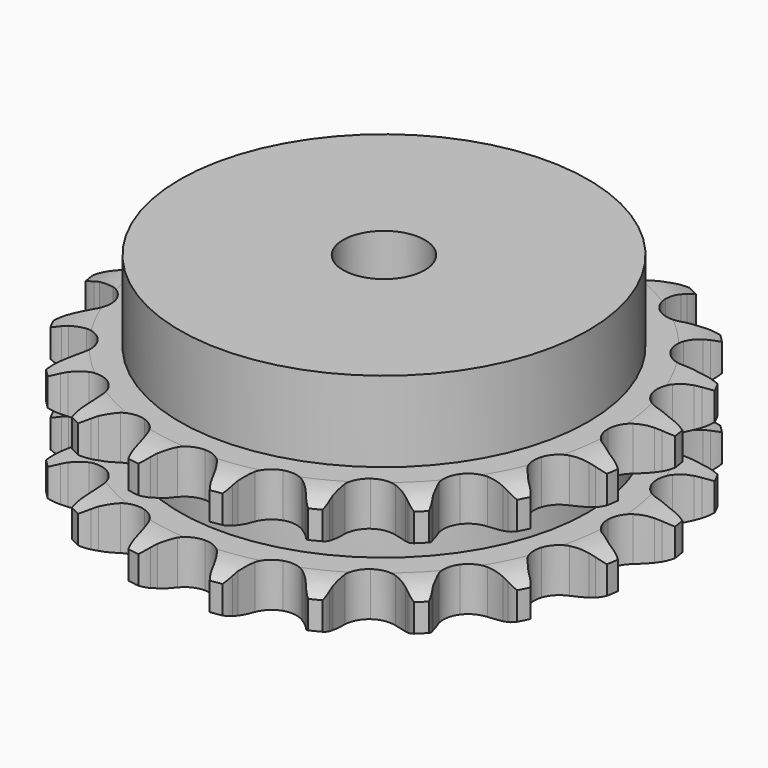
from build123d import *

# Parameters (mm, degrees)
PAD_DEPTH         = 30.3
SKETCH001_R       = 50
PAD001_DEPTH      = 50
SKETCH002_R       = 10
POCKET_DEPTH      = 0.001
POCKET_DEPTH_BACK = 50.001


with BuildPart() as part:
    # Sprocket → Pad (new body)
    with BuildSketch(Plane.XY):
        with BuildLine():
            ThreePointArc((-10.457392, 66.025375), (-8.733699, 64.251511), (-7.499764, 62.107889))
            Line((-7.499764, 62.107889), (-6.918863, 60.725979))
            ThreePointArc((-6.918863, 60.725979), (-5.983558, 58.858219), (-4.809446, 57.130566))
            ThreePointArc((-4.809446, 57.130566), (-2.6755, 55.40253), (0, 54.784842))
            ThreePointArc((0, 54.784842), (2.6755, 55.40253), (4.809446, 57.130566))
            ThreePointArc((4.809446, 57.130566), (5.983558, 58.858219), (6.918863, 60.725979))
            Line((6.918863, 60.725979), (7.499764, 62.107889))
            ThreePointArc((7.499764, 62.107889), (8.733699, 64.251511), (10.457392, 66.025375))
            ThreePointArc((10.457392, 66.025375), (11.548567, 63.80568), (12.059693, 61.385667))
            Line((12.059693, 61.385667), (12.18513, 59.891885))
            ThreePointArc((12.18513, 59.891885), (12.497488, 57.826514), (13.08026, 55.820597))
            ThreePointArc((13.08026, 55.820597), (14.575772, 53.517712), (16.929447, 52.103481))
            ThreePointArc((16.929447, 52.103481), (19.664875, 51.864162), (22.228371, 52.848196))
            Line((22.228371, 52.848196), (25.345589, 55.615792))
            ThreePointArc((25.345589, 55.615792), (25.821841, 56.194828), (26.325093, 56.750558))
            ThreePointArc((26.325093, 56.750558), (28.16105, 58.407957), (30.348534, 59.562352))
            ThreePointArc((30.348534, 59.562352), (30.70038, 57.114104), (30.438664, 54.654588))
            Line((30.438664, 54.654588), (30.096357, 53.195155))
            ThreePointArc((30.096357, 53.195155), (29.755193, 51.134347), (29.68958, 49.04652))
            ThreePointArc((29.68958, 49.04652), (30.400265, 46.394207), (32.201722, 44.321868))
            ThreePointArc((32.201722, 44.321868), (34.729315, 43.248969), (37.471428, 43.392677))
            Line((37.471428, 43.392677), (41.291313, 45.061544))
            ThreePointArc((41.291313, 45.061544), (41.923187, 45.46507), (42.573538, 45.838087))
            ThreePointArc((42.573538, 45.838087), (44.831802, 46.847025), (47.26895, 47.26895))
            ThreePointArc((47.26895, 47.26895), (46.847025, 44.831802), (45.838087, 42.573538))
            Line((45.838087, 42.573538), (45.061544, 41.291313))
            ThreePointArc((45.061544, 41.291313), (44.100252, 39.436793), (43.392677, 37.471428))
            ThreePointArc((43.392677, 37.471428), (43.248969, 34.729315), (44.321868, 32.201722))
            ThreePointArc((44.321868, 32.201722), (46.394207, 30.400265), (49.04652, 29.68958))
            Line((49.04652, 29.68958), (53.195155, 30.096357))
            ThreePointArc((53.195155, 30.096357), (53.920799, 30.284874), (54.654588, 30.438664))
            ThreePointArc((54.654588, 30.438664), (57.114104, 30.70038), (59.562352, 30.348534))
            ThreePointArc((59.562352, 30.348534), (58.407957, 28.16105), (56.750558, 26.325093))
            Line((56.750558, 26.325093), (55.615792, 25.345589))
            ThreePointArc((55.615792, 25.345589), (54.128471, 23.878892), (52.848196, 22.228371))
            ThreePointArc((52.848196, 22.228371), (51.864162, 19.664875), (52.103481, 16.929447))
            ThreePointArc((52.103481, 16.929447), (53.517712, 14.575772), (55.820597, 13.08026))
            Line((55.820597, 13.08026), (59.891885, 12.18513))
            ThreePointArc((59.891885, 12.18513), (60.640268, 12.140183), (61.385667, 12.059693))
            ThreePointArc((61.385667, 12.059693), (63.80568, 11.548567), (66.025375, 10.457392))
            ThreePointArc((66.025375, 10.457392), (64.251511, 8.733699), (62.107889, 7.499764))
            Line((62.107889, 7.499764), (60.725979, 6.918863))
            ThreePointArc((60.725979, 6.918863), (58.858219, 5.983558), (57.130566, 4.809446))
            ThreePointArc((57.130566, 4.809446), (55.40253, 2.6755), (54.784842, 0))
            ThreePointArc((54.784842, 0), (55.40253, -2.6755), (57.130566, -4.809446))
            Line((57.130566, -4.809446), (60.725979, -6.918863))
            ThreePointArc((60.725979, -6.918863), (61.423845, -7.192873), (62.107889, -7.499764))
            ThreePointArc((62.107889, -7.499764), (64.251511, -8.733699), (66.025375, -10.457392))
            ThreePointArc((66.025375, -10.457392), (63.80568, -11.548567), (61.385667, -12.059693))
            Line((61.385667, -12.059693), (59.891885, -12.18513))
            ThreePointArc((59.891885, -12.18513), (57.826514, -12.497488), (55.820597, -13.08026))
            ThreePointArc((55.820597, -13.08026), (53.517712, -14.575772), (52.103481, -16.929447))
            ThreePointArc((52.103481, -16.929447), (51.864162, -19.664875), (52.848196, -22.228371))
            Line((52.848196, -22.228371), (55.615792, -25.345589))
            ThreePointArc((55.615792, -25.345589), (56.194828, -25.821841), (56.750558, -26.325093))
            ThreePointArc((56.750558, -26.325093), (58.407957, -28.16105), (59.562352, -30.348534))
            ThreePointArc((59.562352, -30.348534), (57.114104, -30.70038), (54.654588, -30.438664))
            Line((54.654588, -30.438664), (53.195155, -30.096357))
            ThreePointArc((53.195155, -30.096357), (51.134347, -29.755193), (49.04652, -29.68958))
            ThreePointArc((49.04652, -29.68958), (46.394207, -30.400265), (44.321868, -32.201722))
            ThreePointArc((44.321868, -32.201722), (43.248969, -34.729315), (43.392677, -37.471428))
            Line((43.392677, -37.471428), (45.061544, -41.291313))
            ThreePointArc((45.061544, -41.291313), (45.46507, -41.923187), (45.838087, -42.573538))
            ThreePointArc((45.838087, -42.573538), (46.847025, -44.831802), (47.26895, -47.26895))
            ThreePointArc((47.26895, -47.26895), (44.831802, -46.847025), (42.573538, -45.838087))
            Line((42.573538, -45.838087), (41.291313, -45.061544))
            ThreePointArc((41.291313, -45.061544), (39.436793, -44.100252), (37.471428, -43.392677))
            ThreePointArc((37.471428, -43.392677), (34.729315, -43.248969), (32.201722, -44.321868))
            ThreePointArc((32.201722, -44.321868), (30.400265, -46.394207), (29.68958, -49.04652))
            Line((29.68958, -49.04652), (30.096357, -53.195155))
            ThreePointArc((30.096357, -53.195155), (30.284874, -53.920799), (30.438664, -54.654588))
            ThreePointArc((30.438664, -54.654588), (30.70038, -57.114104), (30.348534, -59.562352))
            ThreePointArc((30.348534, -59.562352), (28.16105, -58.407957), (26.325093, -56.750558))
            Line((26.325093, -56.750558), (25.345589, -55.615792))
            ThreePointArc((25.345589, -55.615792), (23.878892, -54.128471), (22.228371, -52.848196))
            ThreePointArc((22.228371, -52.848196), (19.664875, -51.864162), (16.929447, -52.103481))
            ThreePointArc((16.929447, -52.103481), (14.575772, -53.517712), (13.08026, -55.820597))
            Line((13.08026, -55.820597), (12.18513, -59.891885))
            ThreePointArc((12.18513, -59.891885), (12.140183, -60.640268), (12.059693, -61.385667))
            ThreePointArc((12.059693, -61.385667), (11.548567, -63.80568), (10.457392, -66.025375))
            ThreePointArc((10.457392, -66.025375), (8.733699, -64.251511), (7.499764, -62.107889))
            Line((7.499764, -62.107889), (6.918863, -60.725979))
            ThreePointArc((6.918863, -60.725979), (5.983558, -58.858219), (4.809446, -57.130566))
            ThreePointArc((4.809446, -57.130566), (2.6755, -55.40253), (0, -54.784842))
            ThreePointArc((0, -54.784842), (-2.6755, -55.40253), (-4.809446, -57.130566))
            Line((-4.809446, -57.130566), (-6.918863, -60.725979))
            ThreePointArc((-6.918863, -60.725979), (-7.192873, -61.423845), (-7.499764, -62.107889))
            ThreePointArc((-7.499764, -62.107889), (-8.733699, -64.251511), (-10.457392, -66.025375))
            ThreePointArc((-10.457392, -66.025375), (-11.548567, -63.80568), (-12.059693, -61.385667))
            Line((-12.059693, -61.385667), (-12.18513, -59.891885))
            ThreePointArc((-12.18513, -59.891885), (-12.497488, -57.826514), (-13.08026, -55.820597))
            ThreePointArc((-13.08026, -55.820597), (-14.575772, -53.517712), (-16.929447, -52.103481))
            ThreePointArc((-16.929447, -52.103481), (-19.664875, -51.864162), (-22.228371, -52.848196))
            Line((-22.228371, -52.848196), (-25.345589, -55.615792))
            ThreePointArc((-25.345589, -55.615792), (-25.821841, -56.194828), (-26.325093, -56.750558))
            ThreePointArc((-26.325093, -56.750558), (-28.16105, -58.407957), (-30.348534, -59.562352))
            ThreePointArc((-30.348534, -59.562352), (-30.70038, -57.114104), (-30.438664, -54.654588))
            Line((-30.438664, -54.654588), (-30.096357, -53.195155))
            ThreePointArc((-30.096357, -53.195155), (-29.755193, -51.134347), (-29.68958, -49.04652))
            ThreePointArc((-29.68958, -49.04652), (-30.400265, -46.394207), (-32.201722, -44.321868))
            ThreePointArc((-32.201722, -44.321868), (-34.729315, -43.248969), (-37.471428, -43.392677))
            Line((-37.471428, -43.392677), (-41.291313, -45.061544))
            ThreePointArc((-41.291313, -45.061544), (-41.923187, -45.46507), (-42.573538, -45.838087))
            ThreePointArc((-42.573538, -45.838087), (-44.831802, -46.847025), (-47.26895, -47.26895))
            ThreePointArc((-47.26895, -47.26895), (-46.847025, -44.831802), (-45.838087, -42.573538))
            Line((-45.838087, -42.573538), (-45.061544, -41.291313))
            ThreePointArc((-45.061544, -41.291313), (-44.100252, -39.436793), (-43.392677, -37.471428))
            ThreePointArc((-43.392677, -37.471428), (-43.248969, -34.729315), (-44.321868, -32.201722))
            ThreePointArc((-44.321868, -32.201722), (-46.394207, -30.400265), (-49.04652, -29.68958))
            Line((-49.04652, -29.68958), (-53.195155, -30.096357))
            ThreePointArc((-53.195155, -30.096357), (-53.920799, -30.284874), (-54.654588, -30.438664))
            ThreePointArc((-54.654588, -30.438664), (-57.114104, -30.70038), (-59.562352, -30.348534))
            ThreePointArc((-59.562352, -30.348534), (-58.407957, -28.16105), (-56.750558, -26.325093))
            Line((-56.750558, -26.325093), (-55.615792, -25.345589))
            ThreePointArc((-55.615792, -25.345589), (-54.128471, -23.878892), (-52.848196, -22.228371))
            ThreePointArc((-52.848196, -22.228371), (-51.864162, -19.664875), (-52.103481, -16.929447))
            ThreePointArc((-52.103481, -16.929447), (-53.517712, -14.575772), (-55.820597, -13.08026))
            Line((-55.820597, -13.08026), (-59.891885, -12.18513))
            ThreePointArc((-59.891885, -12.18513), (-60.640268, -12.140183), (-61.385667, -12.059693))
            ThreePointArc((-61.385667, -12.059693), (-63.80568, -11.548567), (-66.025375, -10.457392))
            ThreePointArc((-66.025375, -10.457392), (-64.251511, -8.733699), (-62.107889, -7.499764))
            Line((-62.107889, -7.499764), (-60.725979, -6.918863))
            ThreePointArc((-60.725979, -6.918863), (-58.858219, -5.983558), (-57.130566, -4.809446))
            ThreePointArc((-57.130566, -4.809446), (-55.40253, -2.6755), (-54.784842, 0))
            ThreePointArc((-54.784842, 0), (-55.40253, 2.6755), (-57.130566, 4.809446))
            Line((-57.130566, 4.809446), (-60.725979, 6.918863))
            ThreePointArc((-60.725979, 6.918863), (-61.423845, 7.192873), (-62.107889, 7.499764))
            ThreePointArc((-62.107889, 7.499764), (-64.251511, 8.733699), (-66.025375, 10.457392))
            ThreePointArc((-66.025375, 10.457392), (-63.80568, 11.548567), (-61.385667, 12.059693))
            Line((-61.385667, 12.059693), (-59.891885, 12.18513))
            ThreePointArc((-59.891885, 12.18513), (-57.826514, 12.497488), (-55.820597, 13.08026))
            ThreePointArc((-55.820597, 13.08026), (-53.517712, 14.575772), (-52.103481, 16.929447))
            ThreePointArc((-52.103481, 16.929447), (-51.864162, 19.664875), (-52.848196, 22.228371))
            Line((-52.848196, 22.228371), (-55.615792, 25.345589))
            ThreePointArc((-55.615792, 25.345589), (-56.194828, 25.821841), (-56.750558, 26.325093))
            ThreePointArc((-56.750558, 26.325093), (-58.407957, 28.16105), (-59.562352, 30.348534))
            ThreePointArc((-59.562352, 30.348534), (-57.114104, 30.70038), (-54.654588, 30.438664))
            Line((-54.654588, 30.438664), (-53.195155, 30.096357))
            ThreePointArc((-53.195155, 30.096357), (-51.134347, 29.755193), (-49.04652, 29.68958))
            ThreePointArc((-49.04652, 29.68958), (-46.394207, 30.400265), (-44.321868, 32.201722))
            ThreePointArc((-44.321868, 32.201722), (-43.248969, 34.729315), (-43.392677, 37.471428))
            Line((-43.392677, 37.471428), (-45.061544, 41.291313))
            ThreePointArc((-45.061544, 41.291313), (-45.46507, 41.923187), (-45.838087, 42.573538))
            ThreePointArc((-45.838087, 42.573538), (-46.847025, 44.831802), (-47.26895, 47.26895))
            ThreePointArc((-47.26895, 47.26895), (-44.831802, 46.847025), (-42.573538, 45.838087))
            Line((-42.573538, 45.838087), (-41.291313, 45.061544))
            ThreePointArc((-41.291313, 45.061544), (-39.436793, 44.100252), (-37.471428, 43.392677))
            ThreePointArc((-37.471428, 43.392677), (-34.729315, 43.248969), (-32.201722, 44.321868))
            ThreePointArc((-32.201722, 44.321868), (-30.400265, 46.394207), (-29.68958, 49.04652))
            Line((-29.68958, 49.04652), (-30.096357, 53.195155))
            ThreePointArc((-30.096357, 53.195155), (-30.284874, 53.920799), (-30.438664, 54.654588))
            ThreePointArc((-30.438664, 54.654588), (-30.70038, 57.114104), (-30.348534, 59.562352))
            ThreePointArc((-30.348534, 59.562352), (-28.16105, 58.407957), (-26.325093, 56.750558))
            Line((-26.325093, 56.750558), (-25.345589, 55.615792))
            ThreePointArc((-25.345589, 55.615792), (-23.878892, 54.128471), (-22.228371, 52.848196))
            ThreePointArc((-22.228371, 52.848196), (-19.664875, 51.864162), (-16.929447, 52.103481))
            ThreePointArc((-16.929447, 52.103481), (-14.575772, 53.517712), (-13.08026, 55.820597))
            Line((-13.08026, 55.820597), (-12.18513, 59.891885))
            ThreePointArc((-12.18513, 59.891885), (-12.140183, 60.640268), (-12.059693, 61.385667))
            ThreePointArc((-12.059693, 61.385667), (-11.548567, 63.80568), (-10.457392, 66.025375))
        make_face()
    extrude(amount=PAD_DEPTH)

    # Sketch → Groove (revolve, cut)
    with BuildSketch(Plane.XZ):
        with BuildLine():
            ThreePointArc((56.364719, 0), (60.723618, 0.506758), (64.85, 2))
            Line((64.85, 2), (64.85, 8.8))
            ThreePointArc((64.85, 8.8), (60.723618, 10.293242), (56.364719, 10.8))
            Line((50, 10.8), (56.364719, 10.8))
            Line((50, 19.5), (50, 10.8))
            Line((56.364719, 19.5), (50, 19.5))
            ThreePointArc((56.364719, 19.5), (60.723618, 20.006758), (64.85, 21.5))
            Line((64.85, 21.5), (64.85, 28.3))
            ThreePointArc((64.85, 28.3), (60.723618, 29.793242), (56.364719, 30.3))
            Line((56.364719, 30.3), (74.85, 30.3))
            Line((74.85, 30.3), (74.85, 0))
            Line((56.364719, 0), (74.85, 0))
        make_face()
    revolve(axis=Axis((0, 0, 0), (0, 0, 1)), mode=Mode.SUBTRACT)

    # Sketch001 → Pad001 (join)
    with BuildSketch(Plane.XY):
        Circle(SKETCH001_R)
    extrude(amount=PAD001_DEPTH)

    # Sketch002 → Pocket (cut, two sides)
    with BuildSketch(Plane.XY) as pocket_sk:
        Circle(SKETCH002_R)
    extrude(amount=-POCKET_DEPTH, mode=Mode.SUBTRACT)
    extrude(pocket_sk.sketch, amount=POCKET_DEPTH_BACK, mode=Mode.SUBTRACT)


solid = part.part
